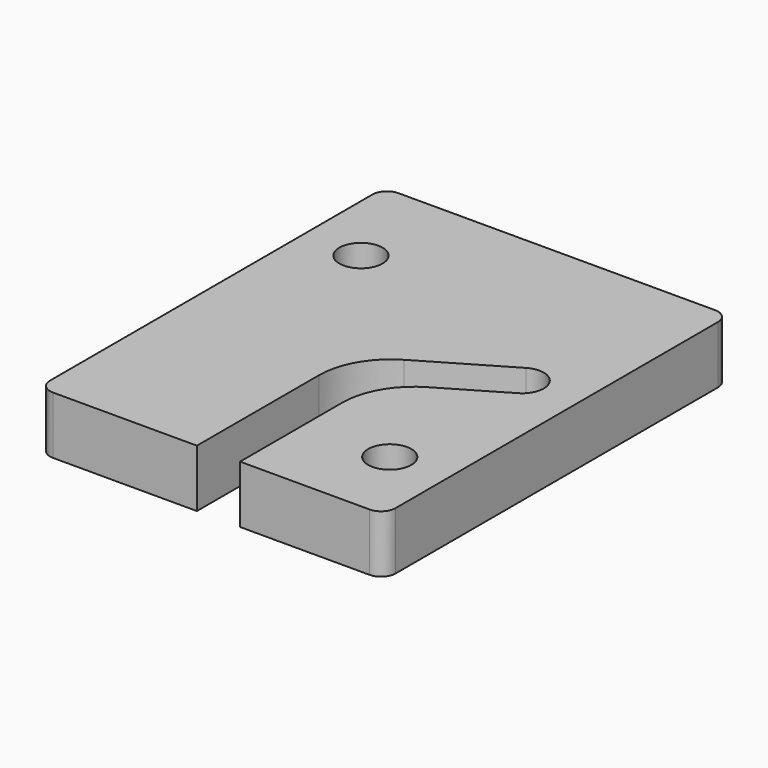
from build123d import *

# Parameters (mm, degrees)
F0_R     = 1.5
F1_DEPTH = 4


with BuildPart() as f1:
    # F0 (on Top) → F1 (new body)
    with BuildSketch(Plane.XY):
        with BuildLine():
            ThreePointArc((0, 1), (0.292893, 0.292893), (1, 0))
            Line((1, 0), (11, 0))
            Line((11, 0), (11, 10.586424))
            ThreePointArc((11, 10.586424), (11.659752, 13.068811), (13.464899, 14.896095))
            Line((13.464899, 14.896095), (19.23947, 18.292901))
            ThreePointArc((19.23947, 18.292901), (19.23995, 18.293184), (19.240431, 18.293466))
            ThreePointArc((19.240431, 18.293466), (21.293184, 17.76005), (20.76053, 15.707099))
            Line((20.76053, 15.707099), (16.464899, 13.180257))
            ThreePointArc((16.464899, 13.180257), (14.659752, 11.352973), (14, 8.870586))
            Line((14, 8.870586), (14, 0))
            Line((14, 0), (23, 0))
            ThreePointArc((23, 0), (23.707107, 0.292893), (24, 1))
            Line((24, 1), (24, 29))
            ThreePointArc((24, 29), (23.707107, 29.707107), (23, 30))
            Line((23, 30), (1, 30))
            ThreePointArc((1, 30), (0.292893, 29.707107), (0, 29))
            Line((0, 29), (0, 1))
        make_face()
        with Locations((20, 5.5)):
            Circle(F0_R, mode=Mode.SUBTRACT)
        with Locations((4, 23)):
            Circle(F0_R, mode=Mode.SUBTRACT)
    extrude(amount=-F1_DEPTH)


solid = f1.part
